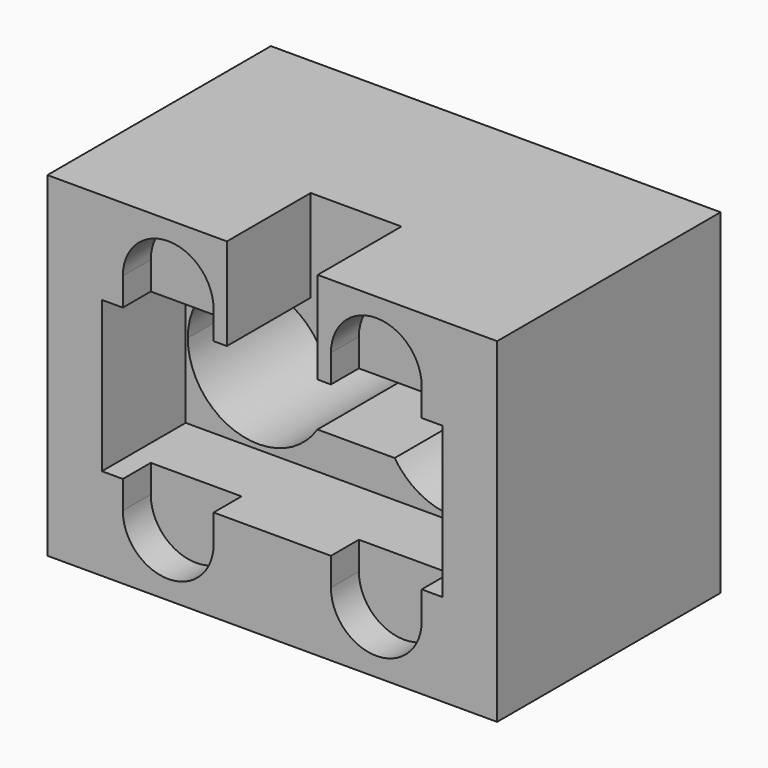
from build123d import *

# Parameters (mm, degrees)
F1_DEPTH = 5
F3_DEPTH = 10
F5_DEPTH = 25


with BuildPart() as f1:
    # F0 (on Front) → F1 (new body)
    with BuildSketch(Plane.XZ):
        with BuildLine():
            Line((32.2, -24), (32.2, 24))
            Line((32.2, 24), (6.5, 24))
            Line((6.5, 24), (6.5, 10.8))
            Line((6.5, 10.8), (8.4, 10.8))
            Line((8.4, 10.8), (8.4, 14.8))
            ThreePointArc((8.4, 14.8), (14.9, 21.3), (21.4, 14.8))
            Line((21.4, 14.8), (21.4, 10.8))
            Line((21.4, 10.8), (24.4, 10.8))
            Line((24.4, 10.8), (24.4, -10.8))
            Line((24.4, -10.8), (21.4, -10.8))
            Line((21.4, -10.8), (21.4, -14.8))
            ThreePointArc((21.4, -14.8), (14.9, -21.3), (8.4, -14.8))
            Line((8.4, -14.8), (8.4, -10.8))
            Line((8.4, -10.8), (-8.4, -10.8))
            Line((-8.4, -10.8), (-8.4, -14.8))
            ThreePointArc((-8.4, -14.8), (-14.9, -21.3), (-21.4, -14.8))
            Line((-21.4, -14.8), (-21.4, -10.8))
            Line((-21.4, -10.8), (-24.4, -10.8))
            Line((-24.4, -10.8), (-24.4, 10.8))
            Line((-24.4, 10.8), (-21.4, 10.8))
            Line((-21.4, 10.8), (-21.4, 14.8))
            ThreePointArc((-21.4, 14.8), (-14.9, 21.3), (-8.4, 14.8))
            Line((-8.4, 14.8), (-8.4, 10.8))
            Line((-8.4, 10.8), (-6.5, 10.8))
            Line((-6.5, 10.8), (-6.5, 24))
            Line((-6.5, 24), (-32.2, 24))
            Line((-32.2, 24), (-32.2, -24))
            Line((-32.2, -24), (32.2, -24))
        make_face()
    extrude(amount=F1_DEPTH)

    # F2 (on face) → F3 (join)
    with BuildSketch(Plane(origin=(0, 0, 0), x_dir=(-1, 0, 0), z_dir=(0, 1, 0))):
        with BuildLine():
            Line((24.4, 10.8), (24.4, -10.8))
            Line((24.4, -10.8), (21.4, -10.8))
            Line((21.4, -10.8), (21.4, -14.8))
            ThreePointArc((21.4, -14.8), (14.9, -21.3), (8.4, -14.8))
            Line((8.4, -14.8), (8.4, -10.8))
            Line((8.4, -10.8), (-8.4, -10.8))
            Line((-8.4, -10.8), (-8.4, -14.8))
            ThreePointArc((-8.4, -14.8), (-14.9, -21.3), (-21.4, -14.8))
            Line((-21.4, -14.8), (-21.4, -10.8))
            Line((-21.4, -10.8), (-24.4, -10.8))
            Line((-24.4, -10.8), (-24.4, 10.8))
            Line((-24.4, 10.8), (-21.4, 10.8))
            Line((-21.4, 10.8), (-21.4, 14.8))
            ThreePointArc((-21.4, 14.8), (-14.9, 21.3), (-8.4, 14.8))
            Line((-8.4, 14.8), (-8.4, 10.8))
            Line((-8.4, 10.8), (-6.5, 10.8))
            Line((-6.5, 10.8), (-6.5, 24))
            Line((-6.5, 24), (-32.2, 24))
            Line((-32.2, 24), (-32.2, -24))
            Line((-32.2, -24), (32.2, -24))
            Line((32.2, -24), (32.2, 24))
            Line((32.2, 24), (6.5, 24))
            Line((6.5, 24), (6.5, 10.8))
            Line((6.5, 10.8), (8.4, 10.8))
            Line((8.4, 10.8), (8.4, 14.8))
            ThreePointArc((8.4, 14.8), (14.9, 21.3), (21.4, 14.8))
            Line((21.4, 14.8), (21.4, 10.8))
            Line((21.4, 10.8), (24.4, 10.8))
        make_face()
        with BuildLine():
            Line((21.4, -14.8), (21.4, -10.8))
            Line((21.4, -10.8), (8.4, -10.8))
            Line((8.4, -10.8), (8.4, -14.8))
            ThreePointArc((8.4, -14.8), (14.9, -21.3), (21.4, -14.8))
        make_face()
        with BuildLine():
            Line((-8.4, -14.8), (-8.4, -10.8))
            Line((-8.4, -10.8), (-21.4, -10.8))
            Line((-21.4, -10.8), (-21.4, -14.8))
            ThreePointArc((-21.4, -14.8), (-14.9, -21.3), (-8.4, -14.8))
        make_face()
        with BuildLine():
            Line((8.4, 10.8), (21.4, 10.8))
            Line((21.4, 10.8), (21.4, 14.8))
            ThreePointArc((21.4, 14.8), (14.9, 21.3), (8.4, 14.8))
            Line((8.4, 14.8), (8.4, 10.8))
        make_face()
        with BuildLine():
            Line((-21.4, 10.8), (-8.4, 10.8))
            Line((-8.4, 10.8), (-8.4, 14.8))
            ThreePointArc((-8.4, 14.8), (-14.9, 21.3), (-21.4, 14.8))
            Line((-21.4, 14.8), (-21.4, 10.8))
        make_face()
    extrude(amount=F3_DEPTH)

    # F4 (on face) → F5 (join)
    with BuildSketch(Plane(origin=(0, 10, 0), x_dir=(-1, 0, 0), z_dir=(0, 1, 0))):
        Polygon((32.2, -24), (32.2, 24), (6.5, 24), (6.5, 10.8), (24.4, 10.8), (24.4, -10.8), (-24.4, -10.8), (-24.4, 10.8), (-6.5, 10.8), (-6.5, 24), (-32.2, 24), (-32.2, -24), align=None)
        Polygon((6.5, 10.8), (6.5, 24), (-6.5, 24), (-6.5, 10.8), (-24.4, 10.8), (-24.4, -10.8), (24.4, -10.8), (24.4, 10.8), align=None)
        with BuildLine():
            ThreePointArc((5.5288725662, 5.5), (16.8680666762, 9.6842239514), (24.1, 0))
            ThreePointArc((24.1, 0), (16.8680666762, -9.6842239514), (5.5288725662, -5.5))
            Line((5.5288725662, -5.5), (0, -5.5))
            Line((0, -5.5), (-5.5288725662, -5.5))
            ThreePointArc((-5.5288725662, -5.5), (-24.1, 0), (-5.5288725662, 5.5))
            Line((-5.5288725662, 5.5), (0, 5.5))
            Line((0, 5.5), (5.5288725662, 5.5))
        make_face(mode=Mode.SUBTRACT)
    extrude(amount=F5_DEPTH)


solid = f1.part
